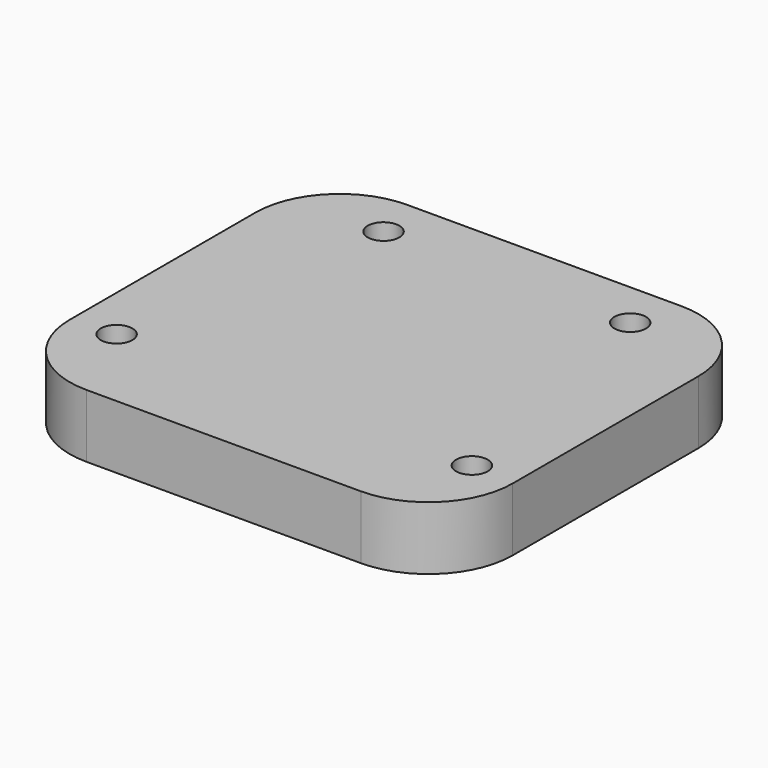
from build123d import *

# Parameters (mm, degrees)
F0_W     = 133.35
F0_H     = 120.65
F1_DEPTH = 19.05
F2_R     = 4.7625
F3_DEPTH = 9.525
F4_R     = 25.4


with BuildPart() as f1:
    # F0 (on Top) → F1 (new body)
    with BuildSketch(Plane.XY):
        Rectangle(F0_W, F0_H)
    extrude(amount=F1_DEPTH)

    # F2 (on face) → F3 (cut)
    with BuildSketch(Plane.XY.offset(19.05)):
        with Locations((-37.11785, 46.229012)):
            Circle(F2_R)
        with Locations((-53.46638, -33.769809)):
            Circle(F2_R)
        with Locations((37.11785, 46.229012)):
            Circle(F2_R)
        with Locations((53.46638, -33.769809)):
            Circle(F2_R)
    extrude(amount=-F3_DEPTH, mode=Mode.SUBTRACT)

    # F4
    f4_edges = [f1.edges().sort_by_distance(p)[0] for p in [
        (66.675, 60.325, 9.525),
        (66.675, -60.325, 9.525),
        (-66.675, -60.325, 9.525),
        (-66.675, 60.325, 9.525),
    ]]
    fillet(f4_edges, radius=F4_R)


solid = f1.part
